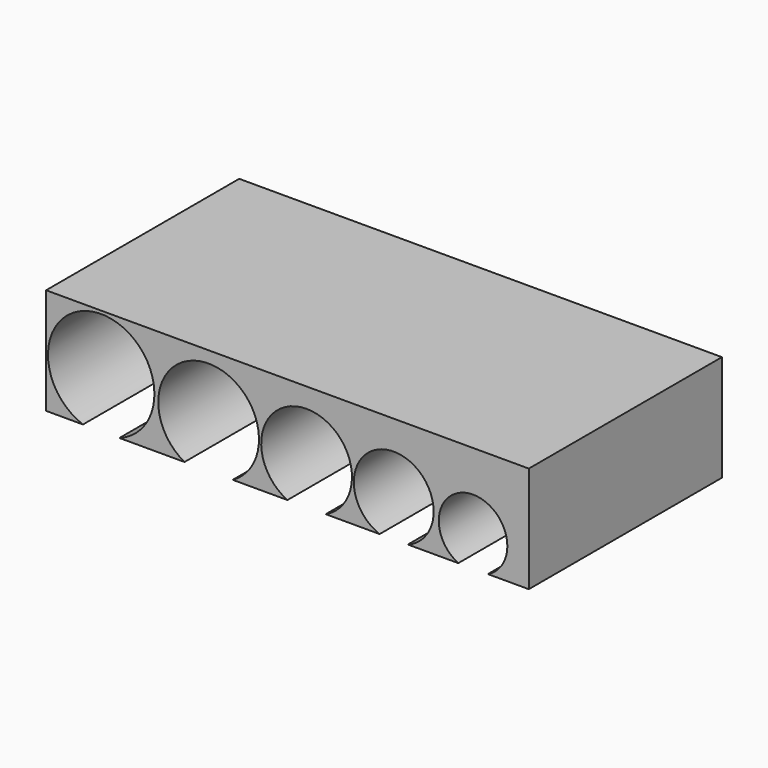
from build123d import *

# Parameters (mm, degrees)
F0_W      = 254
F0_H      = 55.88
F1_DEPTH  = 127
F7_DEPTH  = 251.46
F8_DEPTH  = 251.46
F9_DEPTH  = 251.46
F10_DEPTH = 251.46
F11_DEPTH = 251.46
F12_W     = 18.410387516
F12_H     = 1.8
F12_W_2   = 28.7952162325
F12_W_3   = 28.3505693078
F12_W_4   = 10.2531584787
F13_DEPTH = 28.702
F14_W     = 21.5115528554
F14_H     = 27.94
F14_W_2   = 16.9484987855
F15_DEPTH = 76.2
F17_DEPTH = 7.62


with BuildPart() as f1:
    # F0 (on Front) → F1 (new body)
    with BuildSketch(Plane.XZ):
        Rectangle(F0_W, F0_H)
    extrude(amount=F1_DEPTH)

    # F6 (on face) → F7 (cut)
    with BuildSketch(Plane.XZ.offset(127)):
        with BuildLine():
            ThreePointArc((105.444855988, -27.94), (97.6680144668, 6.3565803399), (89.8911729455, -27.94))
            Line((89.8911729455, -27.94), (105.444855988, -27.94))
        make_face()
    extrude(amount=-F7_DEPTH, mode=Mode.SUBTRACT)

    # F5 (on face) → F8 (cut)
    with BuildSketch(Plane.XZ.offset(127)):
        with BuildLine():
            ThreePointArc((63.3584037423, -27.94), (55.9246577322, 12.700250005), (48.4909117222, -27.94))
            Line((48.4909117222, -27.94), (63.3584037423, -27.94))
        make_face()
    extrude(amount=-F8_DEPTH, mode=Mode.SUBTRACT)

    # F4 (on face) → F9 (cut)
    with BuildSketch(Plane.XZ.offset(127)):
        with BuildLine():
            ThreePointArc((20.1403424144, -27.94), (10.0701712072, 17.5928532036), (0, -27.94))
            Line((0, -27.94), (20.1403424144, -27.94))
        make_face()
    extrude(amount=-F9_DEPTH, mode=Mode.SUBTRACT)

    # F3 (on face) → F10 (cut)
    with BuildSketch(Plane.XZ.offset(127)):
        with BuildLine():
            ThreePointArc((-28.7952162325, -27.94), (-41.4804015309, 21.8266300514), (-54.1655868292, -27.94))
            Line((-54.1655868292, -27.94), (-28.7952162325, -27.94))
        make_face()
    extrude(amount=-F10_DEPTH, mode=Mode.SUBTRACT)

    # F2 (on face) → F11 (cut)
    with BuildSketch(Plane.XZ.offset(127)):
        with BuildLine():
            Line((-107.5928583741, -27.94), (-88.4136334062, -27.94))
            ThreePointArc((-88.4136334062, -27.94), (-98.0032458901, 26.3666404622), (-107.5928583741, -27.94))
        make_face()
    extrude(amount=-F11_DEPTH, mode=Mode.SUBTRACT)

    # F12 (on face) → F13 (cut)
    with BuildSketch(Plane(origin=(0, 0, -27.94), x_dir=(1, 0, 0), z_dir=(0, 0, -1))):
        with Locations((-116.7980521321, 3.44)):
            Rectangle(F12_W, F12_H)
        Polygon((-70.0032458901, 4.34), (-88.4136334062, 4.34), (-88.4136334062, 2.54), (-70.0032458901, 2.54), (-54.1655868292, 2.54), (-54.1655868292, 4.34), align=None)
        with Locations((-14.3976081163, 3.44)):
            Rectangle(F12_W_2, F12_H)
        with Locations((34.3156270683, 3.44)):
            Rectangle(F12_W_3, F12_H)
        Polygon((89.8911729455, 4.34), (63.3584037423, 4.34), (63.3584037423, 2.54), (79.6380144668, 2.54), (89.8911729455, 2.54), align=None)
        with Locations((110.5714352274, 3.44)):
            Rectangle(F12_W_4, F12_H)
    extrude(amount=-F13_DEPTH, mode=Mode.SUBTRACT)

    # F14 (on face) → F15 (cut)
    with BuildSketch(Plane(origin=(0, 0, 0), x_dir=(-1, 0, 0), z_dir=(0, 1, 0))):
        Polygon((-91.1045372486, -21.9016313345), (-104.6037971973, -25.1468683294), (-104.6037971973, -27.94), (-91.1045372486, -27.94), align=None)
        Polygon((-104.6037971973, 0), (-104.6037971973, -25.1468683294), (-91.1045372486, -21.9016313345), (-91.1045372486, 0), align=None)
        with BuildLine():
            Line((-48.8363243639, -11.7403062927), (-63.663393259, -15.3047500242))
            Line((-63.663393259, -15.3047500242), (-63.663393259, -27.8218393414))
            ThreePointArc((-63.663393259, -27.8218393414), (-63.5111285509, -27.8815134631), (-63.3584037423, -27.94))
            Line((-63.3584037423, -27.94), (-48.8363243639, -27.94))
            Line((-48.8363243639, -27.94), (-48.8363243639, -11.7403062927))
        make_face()
        Polygon((-63.663393259, 0), (-63.663393259, -15.3047500242), (-48.8363243639, -11.7403062927), (-48.8363243639, 0), align=None)
        with BuildLine():
            ThreePointArc((-81.4663434771, -19.5845989112), (-101.8823771095, 5.857126467), (-108.5034271854, -26.0843436838))
            Line((-108.5034271854, -26.0843436838), (-104.6037971973, -25.1468683294))
            Line((-104.6037971973, -25.1468683294), (-104.6037971973, 0))
            Line((-104.6037971973, 0), (-91.1045372486, 0))
            Line((-91.1045372486, 0), (-91.1045372486, -21.9016313345))
            Line((-91.1045372486, -21.9016313345), (-81.4663434771, -19.5845989112))
        make_face()
        with Locations((40.9021200612, -13.97)):
            Rectangle(F14_W, F14_H)
        with Locations((99.0267731249, -13.97)):
            Rectangle(F14_W_2, F14_H)
    extrude(amount=-F15_DEPTH, mode=Mode.SUBTRACT)

    # F16 (on face) → F17 (join)
    with BuildSketch(Plane(origin=(0, 0, 0), x_dir=(-1, 0, 0), z_dir=(0, 1, 0))):
        Polygon((127, 27.94), (-127, 27.94), (-127, -27.94), (-105.444855988, -27.94), (-105.444855988, -11.3536855206), (-90.5294641852, -11.3536855206), (-89.8911729455, -27.94), (-63.3584037423, -27.94), (-63.3584037423, -11.3536855206), (-48.4909117222, -11.3536855206), (-48.4909117222, -27.94), (-20.1403424144, -27.94), (-20.1403424144, -11.3536855206), (0, -11.3536855206), (0, -27.94), (28.7952162325, -27.94), (28.7952162325, -11.3536855206), (53.1729161739, -11.3536855206), (54.1655868292, -27.94), (88.4136334062, -27.94), (88.4136334062, -11.3536855206), (107.4278950691, -11.3536855206), (107.5928583741, -27.94), (127, -27.94), align=None)
    extrude(amount=-F17_DEPTH)


solid = f1.part
